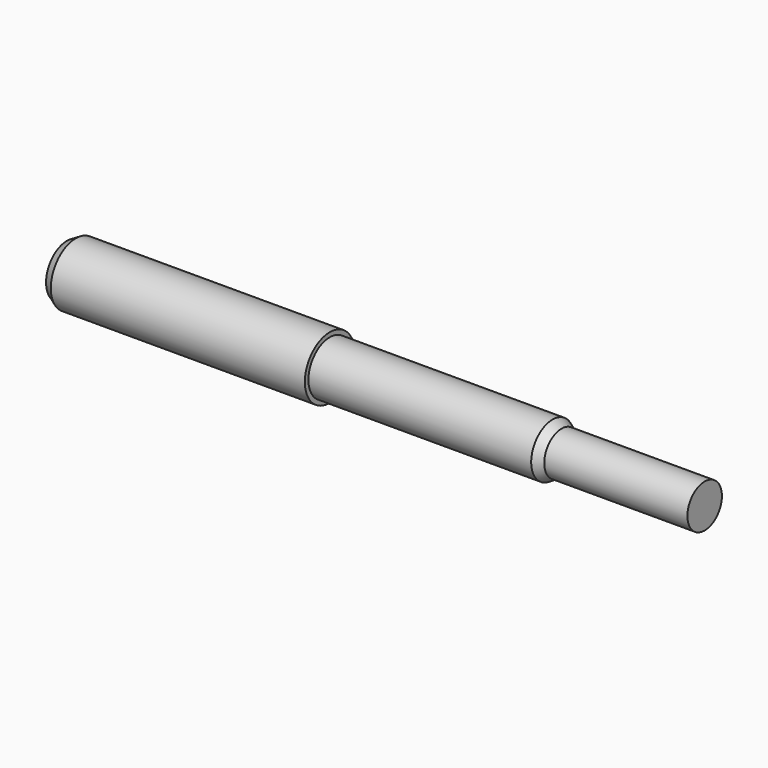
from build123d import *

# Parameters (mm, degrees)
F0_R      = 11.1125
F0_R_2    = 9.525
F1_DEPTH  = 93.6752
F2_DEPTH  = 82.55
F3_SIZE2  = 1.833087
F3_SIZE   = 3.175
F4_SIZE2  = 1.833087
F4_SIZE   = 3.175
F2_FACE_R = 7.691913
F5_DEPTH  = 51


with BuildPart() as f1:
    # F0 (on Right) → F1 (new body)
    with BuildSketch(Plane.YZ):
        Circle(F0_R)
        Circle(F0_R_2, mode=Mode.SUBTRACT)
        Circle(F0_R_2)
    extrude(amount=-F1_DEPTH)

    # F3
    f3_edges = [f1.edges().sort_by_distance(p)[0] for p in [
        (-93.6752, -11.1125, 0),
    ]]
    chamfer(f3_edges, length=F3_SIZE, length2=F3_SIZE2)


with BuildPart() as f2:
    # F0 (on Right) → F2 (new body)
    with BuildSketch(Plane.YZ):
        Circle(F0_R_2)
    extrude(amount=F2_DEPTH)

    # F4
    f4_edges = [f2.edges().sort_by_distance(p)[0] for p in [
        (82.55, -9.525, 0),
    ]]
    chamfer(f4_edges, length=F4_SIZE, length2=F4_SIZE2)

    # F2_face (on face) → F5 (join)
    with BuildSketch(Plane.YZ.offset(82.55)):
        Circle(F2_FACE_R)
    extrude(amount=F5_DEPTH)


solid = Compound([f1.part, f2.part])
